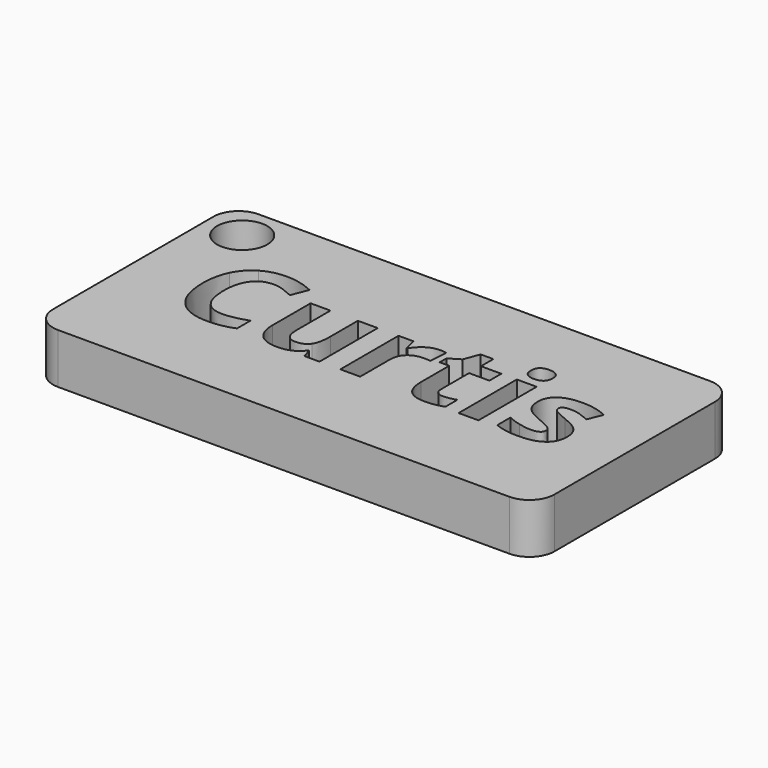
from build123d import *

# Parameters (mm, degrees)
F0_W     = 100
F0_H     = 50
F0_W_2   = 3.9555878385
F0_H_2   = 14.5024385182
F1_DEPTH = 10
F3_R     = 5
F4_DEPTH = 10.0010001
F5_R     = 5
F6_R     = 5
F7_R     = 5


with BuildPart() as f1:
    # F0 (on Top) → F1 (new body)
    with BuildSketch(Plane.XY):
        with Locations((32.7864704737, 7.8855305293)):
            Rectangle(F0_W, F0_H)
        with BuildLine():
            Line((26.2346029855, 0), (23.2004637305, 0))
            Line((23.2004637305, 0), (22.6691780607, 1.8553491751))
            Line((22.6691780607, 1.8553491751), (22.4616445959, 1.8553491751))
            add(Edge.make_bspline(
                [(22.4616445959, 1.8553491751), (21.8265921937, 0.842585867), (20.6581787871, 0.2905468507)],
                knots=[0, 0, 0, 1, 1, 1], degree=2))
            add(Edge.make_bspline(
                [(20.6581787871, 0.2905468507), (19.4897653804, -0.2614921656), (17.9996751033, -0.2614921656)],
                knots=[0, 0, 0, 1, 1, 1], degree=2))
            add(Edge.make_bspline(
                [(17.9996751033, -0.2614921656), (15.4428628174, -0.2614921656), (14.1457786625, 1.1082287019)],
                knots=[0, 0, 0, 1, 1, 1], degree=2))
            add(Edge.make_bspline(
                [(14.1457786625, 1.1082287019), (12.8486945077, 2.4779495694), (12.8486945077, 5.0472138632)],
                knots=[0, 0, 0, 1, 1, 1], degree=2))
            Line((12.8486945077, 5.0472138632), (12.8486945077, 14.5024385182))
            Line((12.8486945077, 14.5024385182), (16.8042823463, 14.5024385182))
            Line((16.8042823463, 14.5024385182), (16.8042823463, 6.0309224863))
            add(Edge.make_bspline(
                [(16.8042823463, 6.0309224863), (16.8042823463, 4.4619694926), (17.3625473665, 3.6774929957)],
                knots=[0, 0, 0, 1, 1, 1], degree=2))
            add(Edge.make_bspline(
                [(17.3625473665, 3.6774929957), (17.9208123867, 2.8930164989), (19.1411091596, 2.8930164989)],
                knots=[0, 0, 0, 1, 1, 1], degree=2))
            add(Edge.make_bspline(
                [(19.1411091596, 2.8930164989), (20.8013768778, 2.8930164989), (21.5401960123, 4.0012452008)],
                knots=[0, 0, 0, 1, 1, 1], degree=2))
            add(Edge.make_bspline(
                [(21.5401960123, 4.0012452008), (22.2790151469, 5.1094739027), (22.2790151469, 7.6787381965)],
                knots=[0, 0, 0, 1, 1, 1], degree=2))
            Line((22.2790151469, 7.6787381965), (22.2790151469, 14.5024385182))
            Line((22.2790151469, 14.5024385182), (26.2346029855, 14.5024385182))
            Line((26.2346029855, 14.5024385182), (26.2346029855, 0))
        make_face(mode=Mode.SUBTRACT)
        with BuildLine():
            add(Edge.make_bspline(
                [(35.9824498258, 14.0271868839), (37.130109886, 14.7722320224), (38.479077407, 14.7722320224)],
                knots=[0, 0, 0, 1, 1, 1], degree=2))
            add(Edge.make_bspline(
                [(38.479077407, 14.7722320224), (39.2843072503, 14.7722320224), (39.8155929201, 14.6560132821)],
                knots=[0, 0, 0, 1, 1, 1], degree=2))
            Line((39.8155929201, 14.6560132821), (39.5167447308, 10.9494656013))
            add(Edge.make_bspline(
                [(39.5167447308, 10.9494656013), (39.0352670926, 11.0781363495), (38.3504066588, 11.0781363495)],
                knots=[0, 0, 0, 1, 1, 1], degree=2))
            add(Edge.make_bspline(
                [(38.3504066588, 11.0781363495), (36.4577014601, 11.0781363495), (35.3992807898, 10.1048043997)],
                knots=[0, 0, 0, 1, 1, 1], degree=2))
            add(Edge.make_bspline(
                [(35.3992807898, 10.1048043997), (34.3408601194, 9.1314724499), (34.3408601194, 7.3798900073)],
                knots=[0, 0, 0, 1, 1, 1], degree=2))
            Line((34.3408601194, 7.3798900073), (34.3408601194, 0))
            Line((34.3408601194, 0), (30.3852722809, 0))
            Line((30.3852722809, 0), (30.3852722809, 14.5024385182))
            Line((30.3852722809, 14.5024385182), (33.3820555122, 14.5024385182))
            Line((33.3820555122, 14.5024385182), (33.9672998828, 12.0618449725))
            Line((33.9672998828, 12.0618449725), (34.1582306704, 12.0618449725))
            add(Edge.make_bspline(
                [(34.1582306704, 12.0618449725), (34.8347897656, 13.2821417454), (35.9824498258, 14.0271868839)],
                knots=[0, 0, 0, 1, 1, 1], degree=2))
        make_face(mode=Mode.SUBTRACT)
        with Locations((55.9554704753, 7.2512192591)):
            Rectangle(F0_W_2, F0_H_2, mode=Mode.SUBTRACT)
        with BuildLine():
            add(Edge.make_bspline(
                [(71.8255545264, 6.1616685691), (72.2032654323, 5.3834180762), (72.2032654323, 4.3083947286)],
                knots=[0, 0, 0, 1, 1, 1], degree=2))
            add(Edge.make_bspline(
                [(72.2032654323, 4.3083947286), (72.2032654323, 2.0753346477), (70.6529904504, 0.9069212411)],
                knots=[0, 0, 0, 1, 1, 1], degree=2))
            add(Edge.make_bspline(
                [(70.6529904504, 0.9069212411), (69.1027154686, -0.2614921656), (66.0146175128, -0.2614921656)],
                knots=[0, 0, 0, 1, 1, 1], degree=2))
            add(Edge.make_bspline(
                [(66.0146175128, -0.2614921656), (64.4332125112, -0.2614921656), (63.3166824708, -0.0456573622)],
                knots=[0, 0, 0, 1, 1, 1], degree=2))
            add(Edge.make_bspline(
                [(63.3166824708, -0.0456573622), (62.2001524303, 0.1701774411), (61.2288958152, 0.5852443707)],
                knots=[0, 0, 0, 1, 1, 1], degree=2))
            Line((61.2288958152, 0.5852443707), (61.2288958152, 3.8518211062))
            add(Edge.make_bspline(
                [(61.2288958152, 3.8518211062), (62.3288231785, 3.3329874442), (63.7109960538, 2.9822558888)],
                knots=[0, 0, 0, 1, 1, 1], degree=2))
            add(Edge.make_bspline(
                [(63.7109960538, 2.9822558888), (65.0931689292, 2.6315243333), (66.143288261, 2.6315243333)],
                knots=[0, 0, 0, 1, 1, 1], degree=2))
            add(Edge.make_bspline(
                [(66.143288261, 2.6315243333), (68.2974856253, 2.6315243333), (68.2974856253, 3.8767251219)],
                knots=[0, 0, 0, 1, 1, 1], degree=2))
            add(Edge.make_bspline(
                [(68.2974856253, 3.8767251219), (68.2974856253, 4.3457507523), (68.0110894439, 4.6383729376)],
                knots=[0, 0, 0, 1, 1, 1], degree=2))
            add(Edge.make_bspline(
                [(68.0110894439, 4.6383729376), (67.7246932625, 4.930995123), (67.0253054862, 5.3004046903)],
                knots=[0, 0, 0, 1, 1, 1], degree=2))
            add(Edge.make_bspline(
                [(67.0253054862, 5.3004046903), (66.32591771, 5.6698142575), (65.1595796379, 6.1595932344)],
                knots=[0, 0, 0, 1, 1, 1], degree=2))
            add(Edge.make_bspline(
                [(65.1595796379, 6.1595932344), (63.4868599119, 6.8610563453), (62.7003080804, 7.4587527239)],
                knots=[0, 0, 0, 1, 1, 1], degree=2))
            add(Edge.make_bspline(
                [(62.7003080804, 7.4587527239), (61.9137562489, 8.0564491024), (61.5588740242, 8.8284735914)],
                knots=[0, 0, 0, 1, 1, 1], degree=2))
            add(Edge.make_bspline(
                [(61.5588740242, 8.8284735914), (61.2039917994, 9.6004980803), (61.2039917994, 10.7253294594)],
                knots=[0, 0, 0, 1, 1, 1], degree=2))
            add(Edge.make_bspline(
                [(61.2039917994, 10.7253294594), (61.2039917994, 12.659541351), (62.7003080804, 13.7158866867)],
                knots=[0, 0, 0, 1, 1, 1], degree=2))
            add(Edge.make_bspline(
                [(62.7003080804, 13.7158866867), (64.1966243614, 14.7722320224), (66.9485181043, 14.7722320224)],
                knots=[0, 0, 0, 1, 1, 1], degree=2))
            add(Edge.make_bspline(
                [(66.9485181043, 14.7722320224), (69.5675904297, 14.7722320224), (72.0455399991, 13.6307979662)],
                knots=[0, 0, 0, 1, 1, 1], degree=2))
            Line((72.0455399991, 13.6307979662), (70.8542979113, 10.7792881602))
            add(Edge.make_bspline(
                [(70.8542979113, 10.7792881602), (69.7626718866, 11.2441631213), (68.8163192872, 11.5430113106)],
                knots=[0, 0, 0, 1, 1, 1], degree=2))
            add(Edge.make_bspline(
                [(68.8163192872, 11.5430113106), (67.8699666879, 11.8418594998), (66.8821073955, 11.8418594998)],
                knots=[0, 0, 0, 1, 1, 1], degree=2))
            add(Edge.make_bspline(
                [(66.8821073955, 11.8418594998), (65.1305249529, 11.8418594998), (65.1305249529, 10.8955069005)],
                knots=[0, 0, 0, 1, 1, 1], degree=2))
            add(Edge.make_bspline(
                [(65.1305249529, 10.8955069005), (65.1305249529, 10.3642212307), (65.6950159771, 9.9740583169)],
                knots=[0, 0, 0, 1, 1, 1], degree=2))
            add(Edge.make_bspline(
                [(65.6950159771, 9.9740583169), (66.2595070012, 9.5838954031), (68.1688148771, 8.8201722528)],
                knots=[0, 0, 0, 1, 1, 1], degree=2))
            add(Edge.make_bspline(
                [(68.1688148771, 8.8201722528), (69.866438619, 8.1311611497), (70.6571411197, 7.5355401058)],
                knots=[0, 0, 0, 1, 1, 1], degree=2))
            add(Edge.make_bspline(
                [(70.6571411197, 7.5355401058), (71.4478436205, 6.9399190619), (71.8255545264, 6.1616685691)],
                knots=[0, 0, 0, 1, 1, 1], degree=2))
        make_face(mode=Mode.SUBTRACT)
        with BuildLine():
            add(Edge.make_bspline(
                [(6.4815678085, 15.5131264916), (5.406544461, 15.8887620629), (4.3688771372, 15.8887620629)],
                knots=[0, 0, 0, 1, 1, 1], degree=2))
            add(Edge.make_bspline(
                [(4.3688771372, 15.8887620629), (2.0984610326, 15.8887620629), (0.8532602439, 14.1828369825)],
                knots=[0, 0, 0, 1, 1, 1], degree=2))
            add(Edge.make_bspline(
                [(0.8532602439, 14.1828369825), (-0.3919405447, 12.476911902), (-0.3919405447, 9.4303206392)],
                knots=[0, 0, 0, 1, 1, 1], degree=2))
            add(Edge.make_bspline(
                [(-0.3919405447, 9.4303206392), (-0.3919405447, 3.0880979558), (4.3688771372, 3.0880979558)],
                knots=[0, 0, 0, 1, 1, 1], degree=2))
            add(Edge.make_bspline(
                [(4.3688771372, 3.0880979558), (6.3653490683, 3.0880979558), (9.2044068663, 4.0842585867)],
                knots=[0, 0, 0, 1, 1, 1], degree=2))
            Line((9.2044068663, 4.0842585867), (9.2044068663, 0.7139151188))
            add(Edge.make_bspline(
                [(9.2044068663, 0.7139151188), (6.8717307223, -0.2614921656), (3.9911662313, -0.2614921656)],
                knots=[0, 0, 0, 1, 1, 1], degree=2))
            add(Edge.make_bspline(
                [(3.9911662313, -0.2614921656), (-0.1470510563, -0.2614921656), (-2.3386044442, 2.2496627581)],
                knots=[0, 0, 0, 1, 1, 1], degree=2))
            add(Edge.make_bspline(
                [(-2.3386044442, 2.2496627581), (-4.5301578322, 4.7608176819), (-4.5301578322, 9.455224655)],
                knots=[0, 0, 0, 1, 1, 1], degree=2))
            add(Edge.make_bspline(
                [(-4.5301578322, 9.455224655), (-4.5301578322, 12.4146518626), (-3.4530591501, 14.639410605)],
                knots=[0, 0, 0, 1, 1, 1], degree=2))
            add(Edge.make_bspline(
                [(-3.4530591501, 14.639410605), (-2.3759604679, 16.8641693473), (-0.3587351903, 18.0491854312)],
                knots=[0, 0, 0, 1, 1, 1], degree=2))
            add(Edge.make_bspline(
                [(-0.3587351903, 18.0491854312), (1.6584900873, 19.234201515), (4.3688771372, 19.234201515)],
                knots=[0, 0, 0, 1, 1, 1], degree=2))
            add(Edge.make_bspline(
                [(4.3688771372, 19.234201515), (7.1290722186, 19.234201515), (9.9183219852, 17.9018366712)],
                knots=[0, 0, 0, 1, 1, 1], degree=2))
            Line((9.9183219852, 17.9018366712), (8.623313165, 14.6311092664))
            add(Edge.make_bspline(
                [(8.623313165, 14.6311092664), (7.5565911561, 15.1374909204), (6.4815678085, 15.5131264916)],
                knots=[0, 0, 0, 1, 1, 1], degree=2))
        make_face(mode=Mode.SUBTRACT)
        with BuildLine():
            add(Edge.make_bspline(
                [(47.303400329, 3.2956314206), (47.7765766287, 2.8930164989), (48.5569024563, 2.8930164989)],
                knots=[0, 0, 0, 1, 1, 1], degree=2))
            add(Edge.make_bspline(
                [(48.5569024563, 2.8930164989), (49.5945697801, 2.8930164989), (51.0473040335, 3.3454394521)],
                knots=[0, 0, 0, 1, 1, 1], degree=2))
            Line((51.0473040335, 3.3454394521), (51.0473040335, 0.4026149217))
            add(Edge.make_bspline(
                [(51.0473040335, 0.4026149217), (49.5696657643, -0.2614921656), (47.4154684, -0.2614921656)],
                knots=[0, 0, 0, 1, 1, 1], degree=2))
            add(Edge.make_bspline(
                [(47.4154684, -0.2614921656), (45.041285563, -0.2614921656), (43.9579608769, 0.9401265954)],
                knots=[0, 0, 0, 1, 1, 1], degree=2))
            add(Edge.make_bspline(
                [(43.9579608769, 0.9401265954), (42.8746361908, 2.1417453564), (42.8746361908, 4.5408322092)],
                knots=[0, 0, 0, 1, 1, 1], degree=2))
            Line((42.8746361908, 4.5408322092), (42.8746361908, 11.5305593027))
            Line((42.8746361908, 11.5305593027), (40.9819309921, 11.5305593027))
            Line((40.9819309921, 11.5305593027), (40.9819309921, 13.2032790287))
            Line((40.9819309921, 13.2032790287), (43.1610323722, 14.527342534))
            Line((43.1610323722, 14.527342534), (44.3024664284, 17.590536474))
            Line((44.3024664284, 17.590536474), (46.8302240294, 17.590536474))
            Line((46.8302240294, 17.590536474), (46.8302240294, 14.5024385182))
            Line((46.8302240294, 14.5024385182), (50.8895786003, 14.5024385182))
            Line((50.8895786003, 14.5024385182), (50.8895786003, 11.5305593027))
            Line((50.8895786003, 11.5305593027), (46.8302240294, 11.5305593027))
            Line((46.8302240294, 11.5305593027), (46.8302240294, 4.5408322092))
            add(Edge.make_bspline(
                [(46.8302240294, 4.5408322092), (46.8302240294, 3.6982463422), (47.303400329, 3.2956314206)],
                knots=[0, 0, 0, 1, 1, 1], degree=2))
        make_face(mode=Mode.SUBTRACT)
        with BuildLine():
            add(Edge.make_bspline(
                [(55.9616964793, 16.3038289924), (53.807499115, 16.3038289924), (53.807499115, 18.250492892)],
                knots=[0, 0, 0, 1, 1, 1], degree=2))
            add(Edge.make_bspline(
                [(53.807499115, 18.250492892), (53.807499115, 20.1847047836), (55.9616964793, 20.1847047836)],
                knots=[0, 0, 0, 1, 1, 1], degree=2))
            add(Edge.make_bspline(
                [(55.9616964793, 20.1847047836), (58.1158938436, 20.1847047836), (58.1158938436, 18.250492892)],
                knots=[0, 0, 0, 1, 1, 1], degree=2))
            add(Edge.make_bspline(
                [(58.1158938436, 18.250492892), (58.1158938436, 17.3290443084), (57.5783821699, 16.8164366504)],
                knots=[0, 0, 0, 1, 1, 1], degree=2))
            add(Edge.make_bspline(
                [(57.5783821699, 16.8164366504), (57.0408704961, 16.3038289924), (55.9616964793, 16.3038289924)],
                knots=[0, 0, 0, 1, 1, 1], degree=2))
        make_face(mode=Mode.SUBTRACT)
    extrude(amount=F1_DEPTH)

    # F3 (on face) → F4 (cut, through all)
    with BuildSketch(Plane.XY.offset(10)):
        with Locations((-9.7990529612, 25.759158656)):
            Circle(F3_R)
    extrude(amount=-F4_DEPTH, mode=Mode.SUBTRACT)

    # F5
    f5_edges = [f1.edges().sort_by_distance(p)[0] for p in [
        (-17.21353, 32.885531, 5),
        (-17.21353, -17.114469, 5),
    ]]
    fillet(f5_edges, radius=F5_R)

    # F6
    f6_edges = [f1.edges().sort_by_distance(p)[0] for p in [
        (82.78647, -17.114469, 5),
    ]]
    fillet(f6_edges, radius=F6_R)

    # F7
    f7_edges = [f1.edges().sort_by_distance(p)[0] for p in [
        (82.78647, 32.885531, 5),
    ]]
    fillet(f7_edges, radius=F7_R)


solid = f1.part
